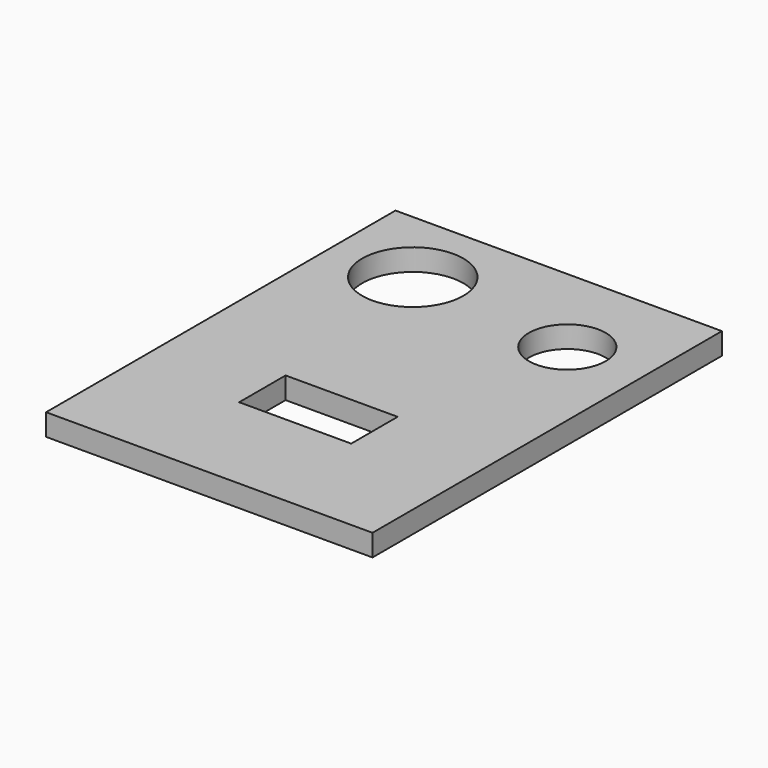
from build123d import *

# Parameters (mm, degrees)
SKETCH_W      = 60.084118
SKETCH_H      = 80.392258
SKETCH_R      = 9.312632
SKETCH_R_2    = 7.062198
SKETCH_W_2    = 20.62126
SKETCH_H_2    = 10.683233
EXTRUDE_DEPTH = 4


with BuildPart() as part:
    # Sketch → Extrude (new body)
    with BuildSketch(Plane.XY):
        Rectangle(SKETCH_W, SKETCH_H)
        with Locations((-15.149905, 25.553061)):
            Circle(SKETCH_R, mode=Mode.SUBTRACT)
        with Locations((15.781789, 22.447472)):
            Circle(SKETCH_R_2, mode=Mode.SUBTRACT)
        with Locations((0, -15.092993)):
            Rectangle(SKETCH_W_2, SKETCH_H_2, mode=Mode.SUBTRACT)
    extrude(amount=EXTRUDE_DEPTH)


solid = part.part
